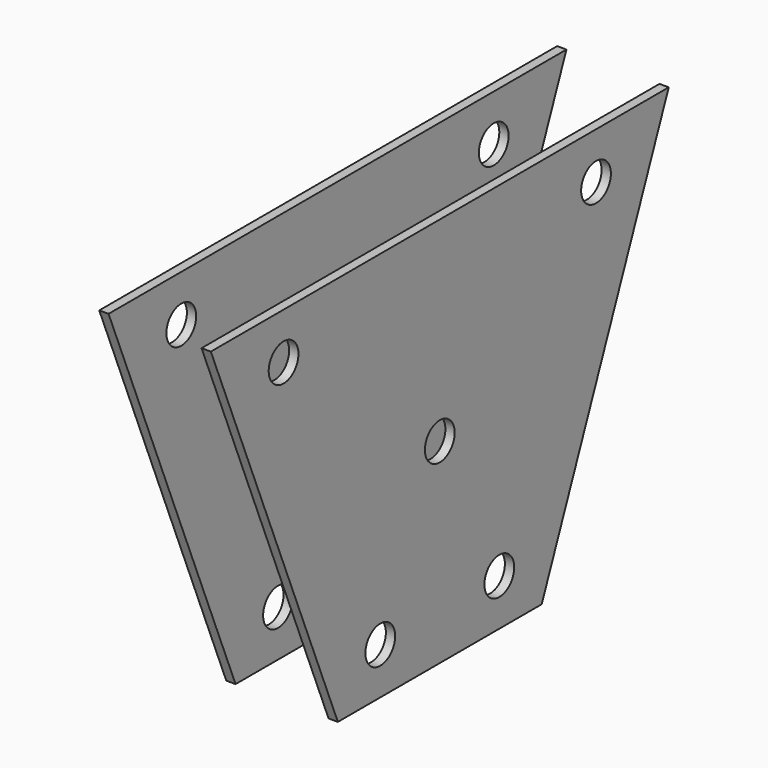
from build123d import *

# Parameters (mm, degrees)
F0_R     = 2
F1_DEPTH = 6
F2_W     = 10
F2_H     = 71.148084
F3_DEPTH = 50


with BuildPart() as f1:
    # F0 (on Right) → F1 (new body, symmetric)
    with BuildSketch(Plane.YZ):
        Polygon((30.777336, 21), (0, 21), (-30.777336, 21), (-13.701361, -21), (0, -21), (13.701361, -21), align=None)
        with Locations((-8, -16)):
            Circle(F0_R, mode=Mode.SUBTRACT)
        with Locations((8, -16)):
            Circle(F0_R, mode=Mode.SUBTRACT)
        with Locations((-21, 16)):
            Circle(F0_R, mode=Mode.SUBTRACT)
        Circle(F0_R, mode=Mode.SUBTRACT)
        with Locations((21, 16)):
            Circle(F0_R, mode=Mode.SUBTRACT)
    extrude(amount=F1_DEPTH, both=True)

    # F2 (on Front) → F3 (cut, symmetric)
    with BuildSketch(Plane.XZ):
        Rectangle(F2_W, F2_H)
    extrude(amount=F3_DEPTH, both=True, mode=Mode.SUBTRACT)


solid = f1.part
